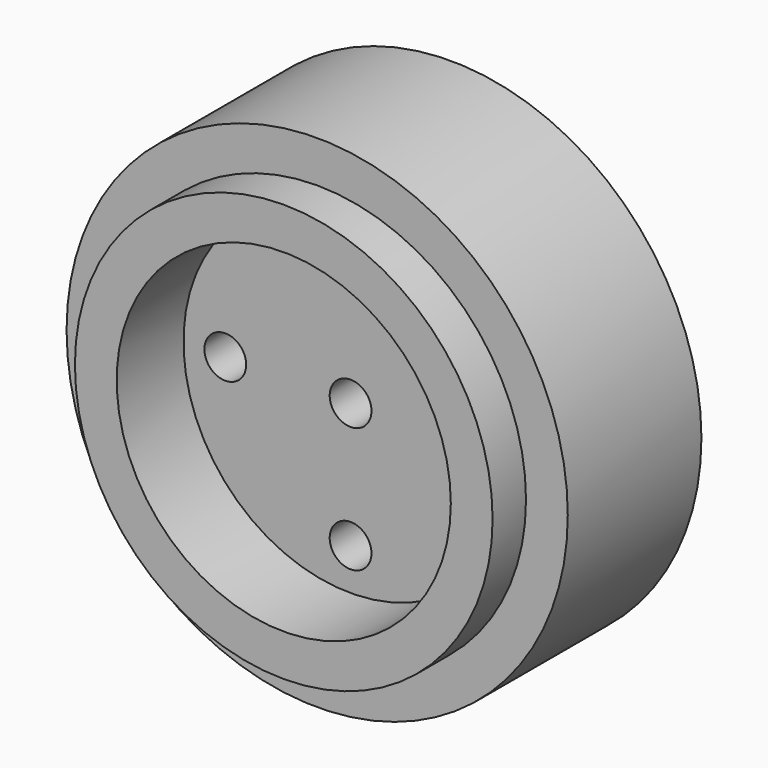
from build123d import *

# Parameters (mm, degrees)
F0_R     = 38.1
F0_R_2   = 31.75
F1_DEPTH = 25.4
F0_R_3   = 25.4
F2_DEPTH = 31.75
F0_R_4   = 3.175
F3_DEPTH = 19.05


with BuildPart() as f1:
    # F0 (on Front) → F1 (new body)
    with BuildSketch(Plane.XZ):
        Circle(F0_R)
        Circle(F0_R_2, mode=Mode.SUBTRACT)
    extrude(amount=F1_DEPTH)

    # F0 (on Front) → F2 (join)
    with BuildSketch(Plane.XZ):
        Circle(F0_R_2)
        Circle(F0_R_3, mode=Mode.SUBTRACT)
    extrude(amount=F2_DEPTH)

    # F0 (on Front) → F3 (join)
    with BuildSketch(Plane.XZ):
        Circle(F0_R_3)
        with Locations((0, -19.05)):
            Circle(F0_R_4, mode=Mode.SUBTRACT)
        with Locations((-19.05, 0)):
            Circle(F0_R_4, mode=Mode.SUBTRACT)
        Circle(F0_R_4, mode=Mode.SUBTRACT)
        with Locations((19.05, 0)):
            Circle(F0_R_4, mode=Mode.SUBTRACT)
        with Locations((0, 19.05)):
            Circle(F0_R_4, mode=Mode.SUBTRACT)
    extrude(amount=F3_DEPTH)


solid = f1.part
